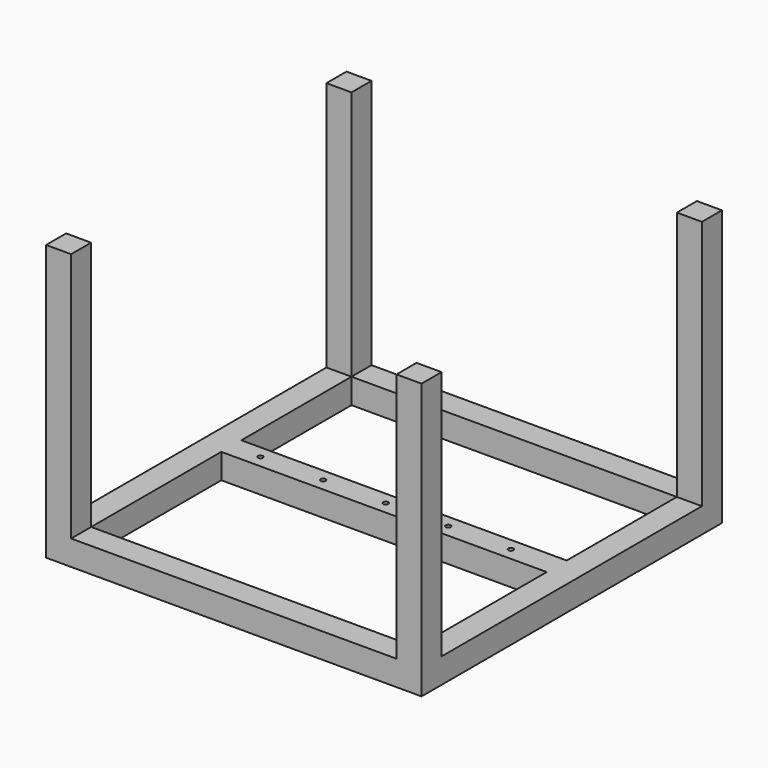
from build123d import *

# Parameters (mm, degrees)
F0_W     = 130
F0_H     = 10
F0_R     = 1
F1_DEPTH = 10
F2_W     = 10
F2_H     = 10
F3_DEPTH = 100


with BuildPart() as f1:
    # F0 (on Top) → F1 (new body)
    with BuildSketch(Plane.XY):
        Polygon((0, 140), (0, 10), (10, 10), (10, 75), (10, 85), (10, 140), align=None)
        Polygon((0, 150), (0, 140), (10, 140), (140, 140), (140, 150), align=None)
        Polygon((140, 10), (140, 0), (150, 0), (150, 150), (140, 150), (140, 140), (140, 85), (140, 75), align=None)
        Polygon((0, 10), (0, 0), (140, 0), (140, 10), (10, 10), align=None)
        with Locations((75, 80)):
            Rectangle(F0_W, F0_H)
        with Locations((21.667194, 80)):
            Circle(F0_R, mode=Mode.SUBTRACT)
        with Locations((46.667194, 80)):
            Circle(F0_R, mode=Mode.SUBTRACT)
        with Locations((71.667194, 80)):
            Circle(F0_R, mode=Mode.SUBTRACT)
        with Locations((96.667194, 80)):
            Circle(F0_R, mode=Mode.SUBTRACT)
        with Locations((121.667194, 80)):
            Circle(F0_R, mode=Mode.SUBTRACT)
    extrude(amount=F1_DEPTH)

    # F2 (on face) → F3 (join)
    with BuildSketch(Plane.XY.offset(10)):
        with Locations((5, 145)):
            Rectangle(F2_W, F2_H)
        with Locations((5, 5)):
            Rectangle(F2_W, F2_H)
        with Locations((145, 5)):
            Rectangle(F2_W, F2_H)
        with Locations((145, 145)):
            Rectangle(F2_W, F2_H)
    extrude(amount=F3_DEPTH)


solid = f1.part
